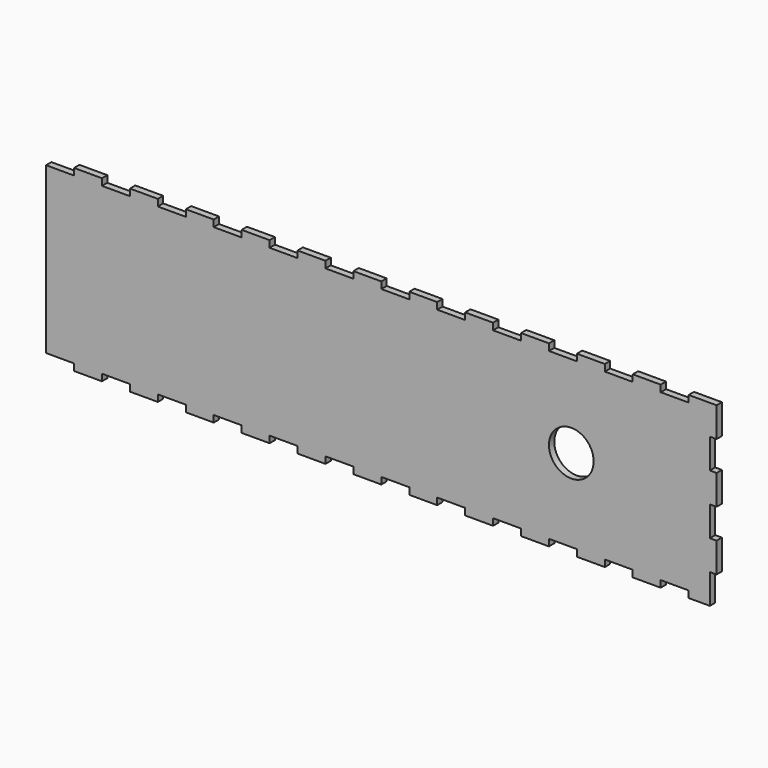
from build123d import *

# Parameters (mm, degrees)
F0_R     = 10
F1_DEPTH = 3


with BuildPart() as f1:
    # F0 (on Front) → F1 (new body)
    with BuildSketch(Plane.XZ):
        Polygon((147, -26.6665), (150, -26.6665), (150, -13.3332), (147, -13.3332), (147, 0.0001), (150, 0.0001), (150, 13.3334), (147, 13.3334), (147, 26.6667), (150, 26.6667), (150, 40), (137.5, 40), (137.5, 36.99985), (125, 36.99985), (125, 40), (112.5, 40), (112.5, 36.99985), (100, 36.99985), (100, 40), (87.5, 40), (87.5, 36.99985), (75, 36.99985), (75, 40), (62.5, 40), (62.5, 36.99985), (50, 36.99985), (50, 40), (37.5, 40), (37.5, 36.99985), (25, 36.99985), (25, 40), (12.5, 40), (12.5, 36.99985), (0, 36.99985), (0, 40), (-12.5, 40), (-12.5, 36.99985), (-25, 36.99985), (-25, 40), (-37.5, 40), (-37.5, 36.99985), (-50, 36.99985), (-50, 40), (-62.5, 40), (-62.5, 36.99985), (-75, 36.99985), (-75, 40), (-87.5, 40), (-87.5, 36.99985), (-100, 36.99985), (-100, 40), (-112.5, 40), (-112.5, 36.99985), (-125, 36.99985), (-125, 40), (-137.5, 40), (-137.5, 36.99985), (-150, 36.99985), (-150, -36.99985), (-137.5, -36.99985), (-137.5, -40), (-125, -40), (-125, -36.99985), (-112.5, -36.99985), (-112.5, -40), (-100, -40), (-100, -36.99985), (-87.5, -36.99985), (-87.5, -40), (-75, -40), (-75, -36.99985), (-62.5, -36.99985), (-62.5, -40), (-50, -40), (-50, -36.99985), (-37.5, -36.99985), (-37.5, -40), (-25, -40), (-25, -36.99985), (-12.5, -36.99985), (-12.5, -40), (0, -40), (0, -36.99985), (12.5, -36.99985), (12.5, -40), (25, -40), (25, -36.99985), (37.5, -36.99985), (37.5, -40), (50, -40), (50, -36.99985), (62.5, -36.99985), (62.5, -40), (75, -40), (75, -36.99985), (87.5, -36.99985), (87.5, -40), (100, -40), (100, -36.99985), (112.5, -36.99985), (112.5, -40), (125, -40), (125, -36.99985), (137.5, -36.99985), (137.5, -40), (147, -40), align=None)
        with Locations((85, 0)):
            Circle(F0_R, mode=Mode.SUBTRACT)
    extrude(amount=F1_DEPTH)


solid = f1.part
